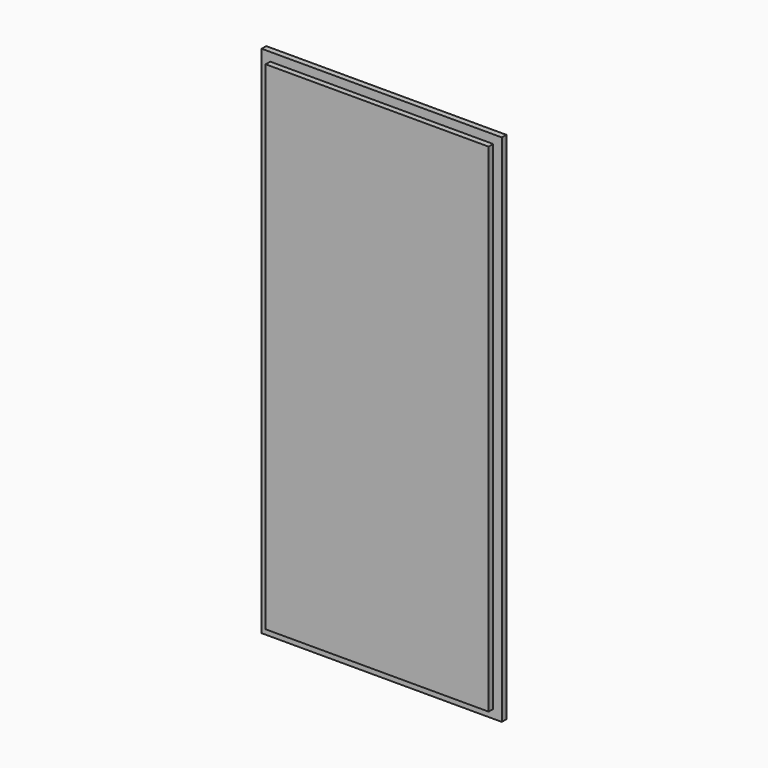
from build123d import *

# Parameters (mm, degrees)
F0_W     = 266.7
F0_H     = 571.5
F0_W_2   = 247.65
F0_H_2   = 552.45
F1_DEPTH = 6.35
F2_DEPTH = 6.35


with BuildPart() as f1:
    # F0 (on Front) → F1 (new body)
    with BuildSketch(Plane.XZ):
        with Locations((133.35, -285.75)):
            Rectangle(F0_W, F0_H)
        with Locations((133.35, -285.75)):
            Rectangle(F0_W_2, F0_H_2, mode=Mode.SUBTRACT)
        with Locations((133.35, -285.75)):
            Rectangle(F0_W_2, F0_H_2)
    extrude(amount=-F1_DEPTH)

    # F0 (on Front) → F2 (join)
    with BuildSketch(Plane.XZ):
        with Locations((133.35, -285.75)):
            Rectangle(F0_W_2, F0_H_2)
    extrude(amount=F2_DEPTH)


solid = f1.part
